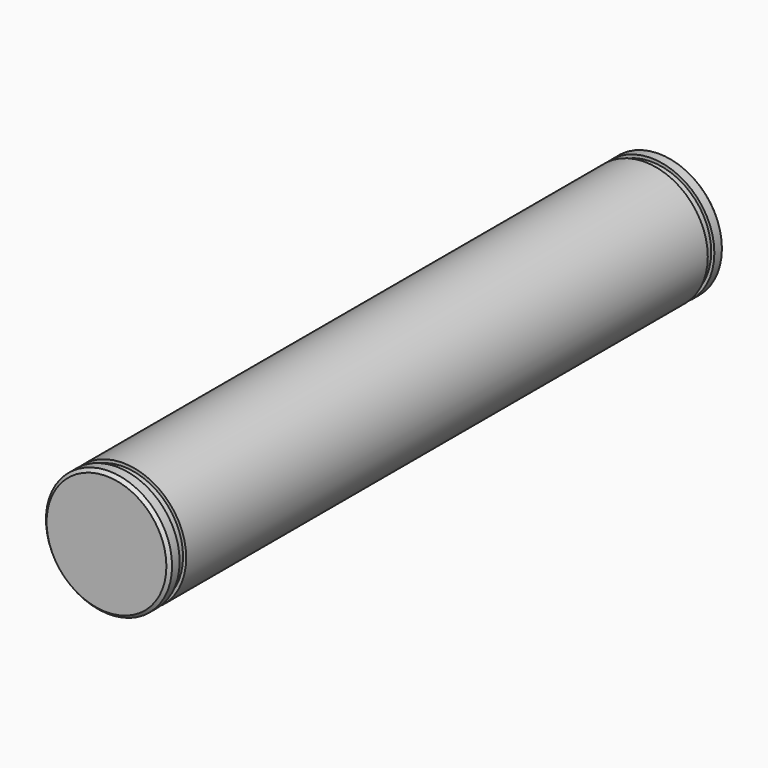
from build123d import *

# Parameters (mm, degrees)
F0_R     = 10
F1_DEPTH = 110
F3_R     = 10
F3_R_2   = 9.5
F4_DEPTH = 1.3
F6_R     = 10
F6_R_2   = 9.5
F7_DEPTH = 1.3
F8_SIZE  = 0.5


with BuildPart() as f1:
    # F0 (on Front) → F1 (new body)
    with BuildSketch(Plane.XZ):
        Circle(F0_R)
    extrude(amount=F1_DEPTH)

    # F3 (on offset) → F4 (cut)
    with BuildSketch(Plane.XZ.offset(108)):
        Circle(F3_R)
        Circle(F3_R_2, mode=Mode.SUBTRACT)
    extrude(amount=-F4_DEPTH, mode=Mode.SUBTRACT)

    # F6 (on offset) → F7 (cut)
    with BuildSketch(Plane(origin=(0, -2, 0), x_dir=(1, 0, 0), z_dir=(0, 1, 0))):
        Circle(F6_R)
        Circle(F6_R_2, mode=Mode.SUBTRACT)
    extrude(amount=-F7_DEPTH, mode=Mode.SUBTRACT)

    # F8
    f8_edges = [f1.edges().sort_by_distance(p)[0] for p in [
        (-10, -110, 0),
        (-10, 0, 0),
    ]]
    chamfer(f8_edges, length=F8_SIZE)


solid = f1.part
